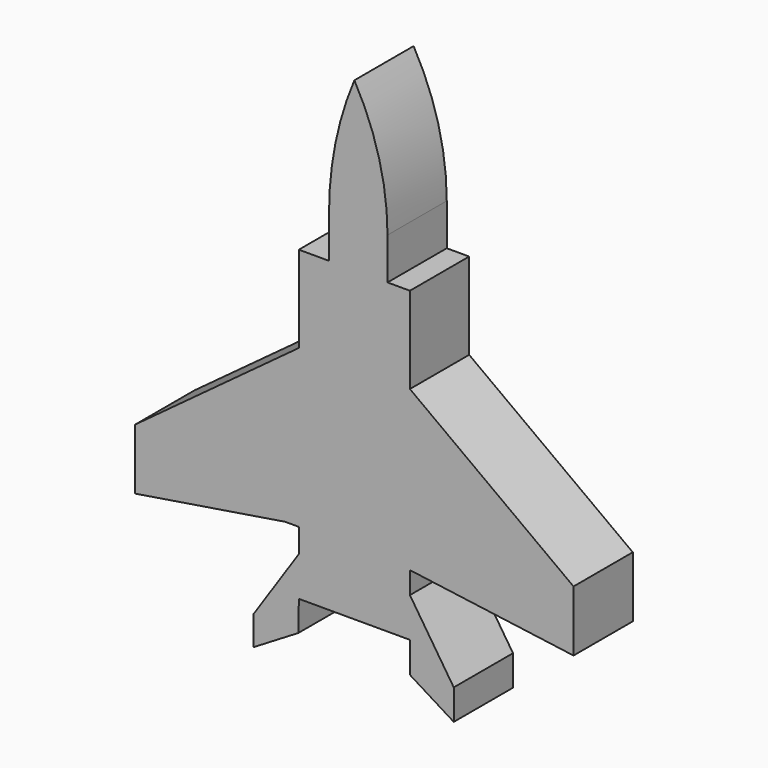
from build123d import *

# Parameters (mm, degrees)
F1_DEPTH = 12.7


with BuildPart() as f1:
    # F0 (on Front) → F1 (new body, symmetric)
    with BuildSketch(Plane.XZ):
        with BuildLine():
            Line((-19.05, -52.705), (19.05, -52.705))
            Line((19.05, -52.705), (19.05, -63.275363))
            Line((19.05, -63.275363), (34.081931, -72.595161))
            Line((34.081931, -72.595161), (34.081931, -62.168677))
            Line((34.081931, -62.168677), (19.05, -39.198428))
            Line((19.05, -39.198428), (19.05, -31.643265))
            Line((19.05, -31.643265), (75.1586, -39.198428))
            Line((75.1586, -39.198428), (75.1586, -18.334107))
            Line((75.1586, -18.334107), (19.05, 23.027632))
            Line((19.05, 23.027632), (19.05, 52.705))
            Line((19.05, 52.705), (11.364806, 52.705))
            Line((11.364806, 52.705), (11.364806, 67.008361))
            ThreePointArc((11.364806, 67.008361), (8.475728, 89.264488), (0, 110.045344))
            ThreePointArc((0, 110.045344), (-6.504109, 88.962248), (-8.701194, 67.008361))
            Line((-8.701194, 67.008361), (-8.701194, 52.705))
            Line((-8.701194, 52.705), (-19.05, 52.705))
            Line((-19.05, 52.705), (-19.05, 23.027632))
            Line((-19.05, 23.027632), (-75.1586, -18.334107))
            Line((-75.1586, -18.334107), (-75.1586, -39.198428))
            Line((-75.1586, -39.198428), (-23.7749, -30.977035))
            Line((-23.7749, -30.977035), (-19.05, -30.977035))
            Line((-19.05, -30.977035), (-19.05, -39.198428))
            Line((-19.05, -39.198428), (-34.611922, -62.3945))
            Line((-34.611922, -62.3945), (-34.611922, -72.377621))
            Line((-34.611922, -72.377621), (-19.181741, -63.053779))
            Line((-19.181741, -63.053779), (-19.05, -52.705))
        make_face()
        Polygon((19.05, -30.977035), (19.05, -31.643265), (14.102228, -30.977035), align=None, mode=Mode.SUBTRACT)
        Polygon((14.102228, -30.977035), (19.05, -31.643265), (19.05, -30.977035), align=None)
    extrude(amount=F1_DEPTH, both=True)


solid = f1.part
